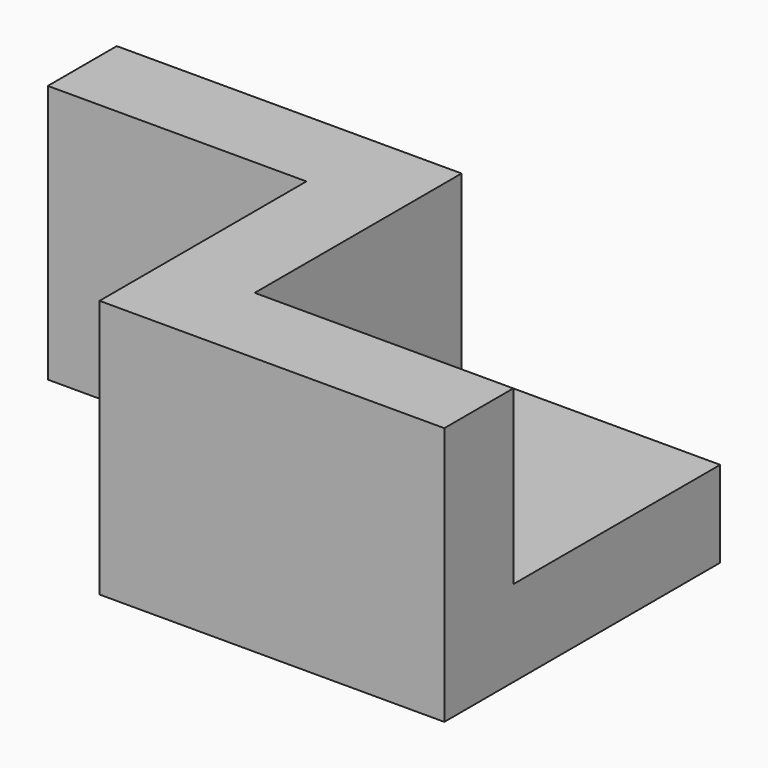
from build123d import *

# Parameters (mm, degrees)
F1_DEPTH = 30
F2_W     = 30
F2_H     = 30
F3_DEPTH = 20


with BuildPart() as f1:
    # F0 (on Top) → F1 (new body)
    with BuildSketch(Plane.XY):
        Polygon((0, 30), (0, 0), (40, 0), (40, 40), (-30, 40), (-30, 30), align=None)
    extrude(amount=F1_DEPTH)

    # F2 (on face) → F3 (cut)
    with BuildSketch(Plane.XY.offset(30)):
        with Locations((25, 25)):
            Rectangle(F2_W, F2_H)
    extrude(amount=-F3_DEPTH, mode=Mode.SUBTRACT)


solid = f1.part
